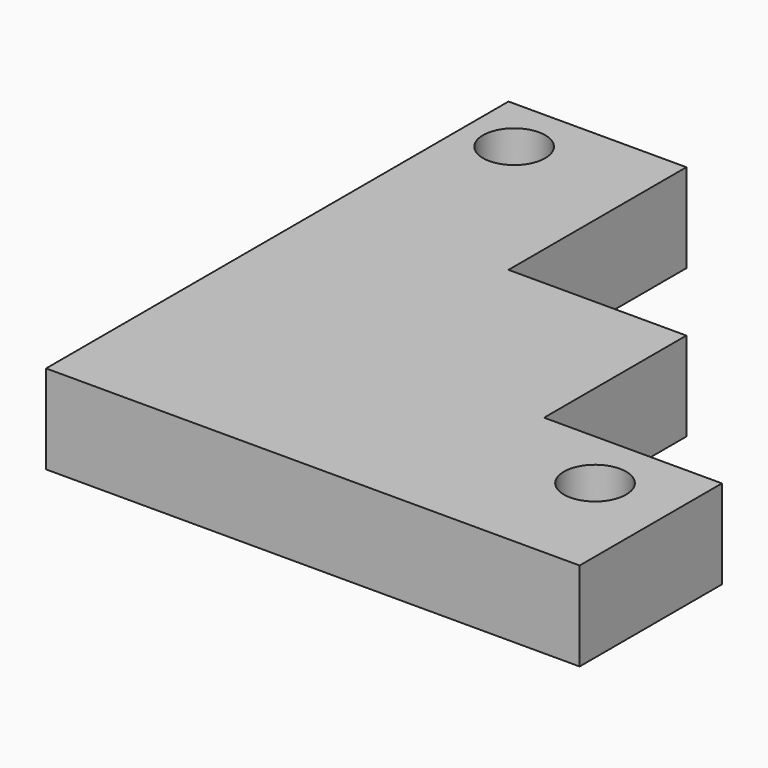
from build123d import *

# Parameters (mm, degrees)
F0_W     = 20
F0_H     = 25
F0_R     = 3.5
F1_DEPTH = 10


with BuildPart() as f1:
    # F0 (on Top) → F1 (new body)
    with BuildSketch(Plane.XY):
        with Locations((-35.199998, 27.2)):
            Rectangle(F0_W, F0_H)
        with Locations((-39.446462, 33.300817)):
            Circle(F0_R, mode=Mode.SUBTRACT)
        Polygon((-5.199998, -5.3), (-45.199998, -5.3), (-45.199998, -25.3), (14.800002, -25.3), (14.800002, -5.3), align=None)
        with Locations((6.069177, -12.224216)):
            Circle(F0_R, mode=Mode.SUBTRACT)
        Polygon((-25.199998, 14.7), (-45.199998, 14.7), (-45.199998, -5.3), (-5.199998, -5.3), (-5.199998, 14.7), align=None)
    extrude(amount=F1_DEPTH)


solid = f1.part
